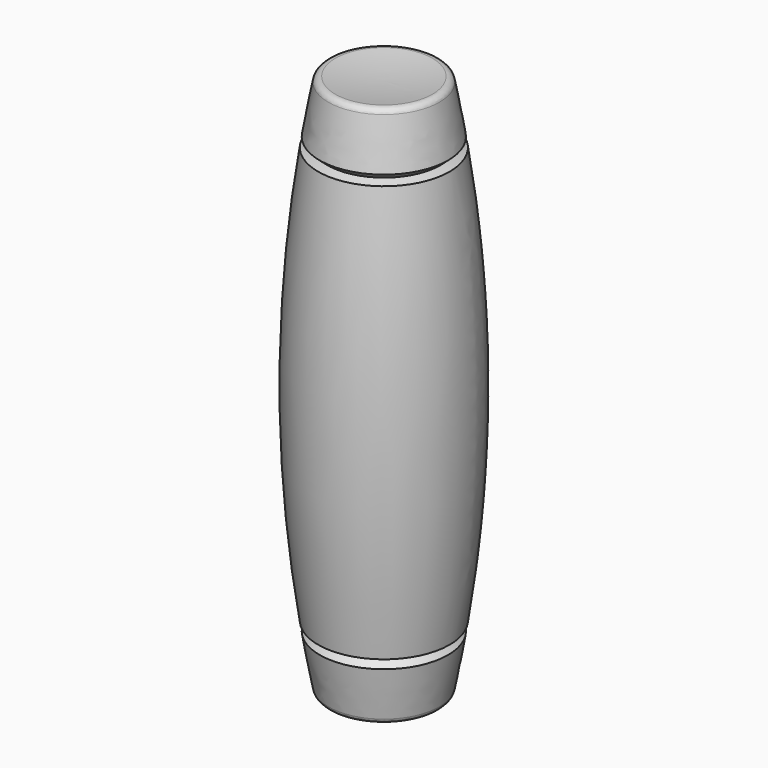
from build123d import *

# Parameters (mm, degrees)
F2_R = 1


with BuildPart() as f1:
    # F0 (on Front) → F1 (revolve)
    with BuildSketch(Plane.XZ):
        with BuildLine():
            ThreePointArc((0, 0), (4.515929, -0.204354), (8.994944, -0.815745))
            ThreePointArc((8.994944, -0.815745), (13.5, 44.184255), (8.994944, 89.184255))
            ThreePointArc((8.994944, 89.184255), (4.515929, 88.572865), (0, 88.368511))
            Line((0, 88.368511), (0, 0))
        make_face()
    revolve(axis=Axis((0, 0, 44.184255), (0, 0, 1)))

    # F2
    f2_edges = [f1.edges().sort_by_distance(p)[0] for p in [
        (-8.994944, 0, 89.184255),
        (-8.994944, 0, -0.815745),
    ]]
    fillet(f2_edges, radius=F2_R)

    # F3 (on Front) → F4 (revolve, cut)
    with BuildSketch(Plane.XZ):
        Polygon((17.611649, 76.389477), (14.730386, 83.846378), (9.405171, 79.142965), align=None)
        Polygon((9.405171, 9.225546), (14.730386, 4.522133), (17.611649, 11.979034), align=None)
    revolve(axis=Axis((0, 0, 27.809754), (0, 0, 1)), mode=Mode.SUBTRACT)


solid = f1.part
